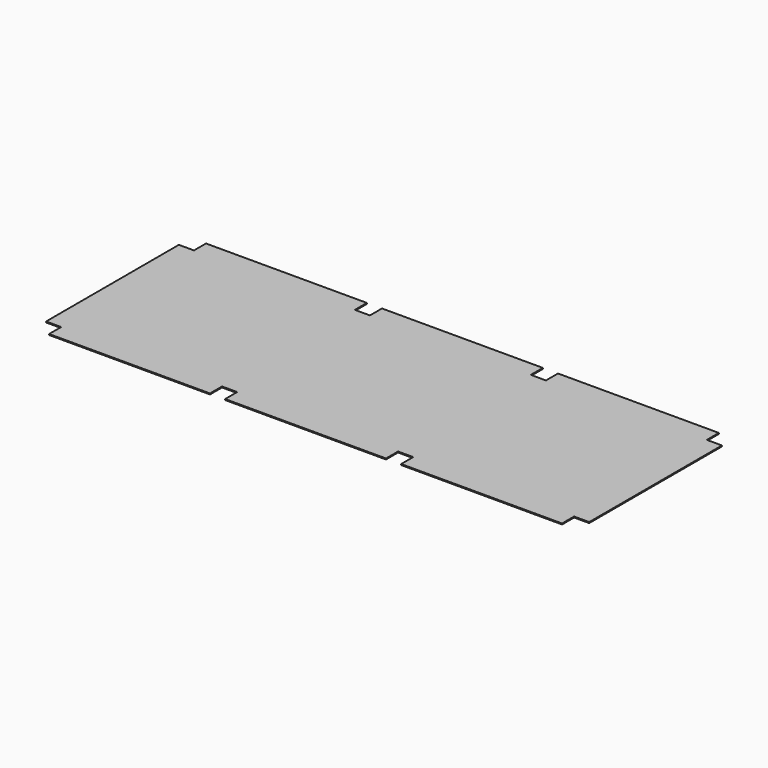
from build123d import *

# Parameters (mm, degrees)
F0_W     = 541.782
F0_H     = 50.8
F0_W_2   = 541.7734120522
F0_H_2   = 0.0195167541
F0_W_3   = 541.7015288506
F0_H_3   = 0.0952444553
F0_W_4   = 0.0085879478
F0_W_5   = 0.0804711494
F0_H_4   = 50.6215176582
F0_H_5   = 0.1784823418
F0_H_6   = 0.077184248
F0_H_7   = 50.722815752
F1_DEPTH = 3.175


with BuildPart() as f1:
    # F0 (on Top) → F1 (new body)
    with BuildSketch(Plane.XY):
        Polygon((-321.8265879478, -279.4), (-270.891, -279.4), (270.891, -279.4), (321.8984711494, -279.4), (321.8984711494, -279.3047555447), (863.6, -279.3047555447), (863.6, 279.4), (863.5880243454, 279.4), (863.5880243454, 279.322815752), (321.8060243454, 279.322815752), (321.8060243454, 279.4), (270.891, 279.4), (-270.891, 279.4), (-321.623693737, 279.4), (-321.623693737, 279.2215176582), (-863.405693737, 279.2215176582), (-863.405693737, 279.4), (-863.6, 279.4), (-863.6, -279.3804832459), (-321.8265879478, -279.3804832459), align=None)
        with Locations((0, -304.8)):
            Rectangle(F0_W, F0_H)
        Polygon((-321.8265879478, -330.1804832459), (-321.8265879478, -279.4), (-863.6, -279.4), (-863.6085879478, -279.4), (-863.6085879478, -330.1804832459), align=None)
        with Locations((-592.7132939739, -279.3902416229)):
            Rectangle(F0_W_2, F0_H_2)
        with Locations((592.7492355747, -279.3523777723)):
            Rectangle(F0_W_3, F0_H_3)
        Polygon((863.6, -279.4), (321.8984711494, -279.4), (321.8984711494, -330.1047555447), (863.6804711494, -330.1047555447), (863.6804711494, -279.4), align=None)
        with Locations((-863.6042939739, -279.3902416229)):
            Rectangle(F0_W_4, F0_H_2)
        with Locations((863.6402355747, -279.3523777723)):
            Rectangle(F0_W_5, F0_H_3)
        Polygon((-863.6085879478, -279.3804832459), (-863.6, -279.3804832459), (-863.6, 279.4), (-914.4, 279.4), (-914.4, -279.4), (-863.6085879478, -279.4), align=None)
        Polygon((863.6, 279.4), (863.6, -279.3047555447), (863.6804711494, -279.3047555447), (863.6804711494, -279.4), (914.4, -279.4), (914.4, 279.4), align=None)
        with Locations((-592.514693737, 304.7107588291)):
            Rectangle(F0_W, F0_H_4)
        with Locations((-592.514693737, 279.3107588291)):
            Rectangle(F0_W, F0_H_5)
        with Locations((592.6970243454, 279.361407876)):
            Rectangle(F0_W, F0_H_6)
        with Locations((592.6970243454, 304.761407876)):
            Rectangle(F0_W, F0_H_7)
        with Locations((0, 304.8)):
            Rectangle(F0_W, F0_H)
    extrude(amount=F1_DEPTH)


solid = f1.part
